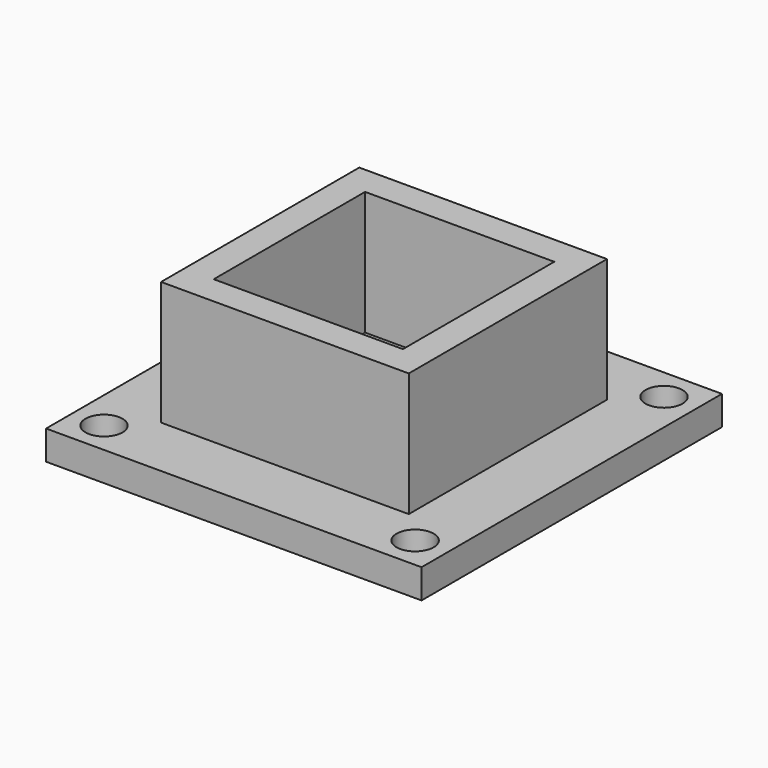
from build123d import *

# Parameters (mm, degrees)
F0_R     = 1.9
F1_DEPTH = 3
F2_W     = 25.4
F2_H     = 25.4
F2_W_2   = 19.4
F2_H_2   = 19.4
F3_DEPTH = 12.7


with BuildPart() as f1:
    # F0 (on Top) → F1 (new body)
    with BuildSketch(Plane.XY):
        Polygon((-19.25, 19.25), (-19.25, 0), (-19.25, -19.25), (19.25, -19.25), (19.25, 19.25), align=None)
        with Locations((-15.95, -15.95)):
            Circle(F0_R, mode=Mode.SUBTRACT)
        with Locations((15.95, -15.95)):
            Circle(F0_R, mode=Mode.SUBTRACT)
        with Locations((-15.95, 15.95)):
            Circle(F0_R, mode=Mode.SUBTRACT)
        with Locations((15.95, 15.95)):
            Circle(F0_R, mode=Mode.SUBTRACT)
    extrude(amount=F1_DEPTH)

    # F2 (on face) → F3 (join)
    with BuildSketch(Plane.XY.offset(3)):
        Rectangle(F2_W, F2_H)
        Rectangle(F2_W_2, F2_H_2, mode=Mode.SUBTRACT)
    extrude(amount=F3_DEPTH)


solid = f1.part
